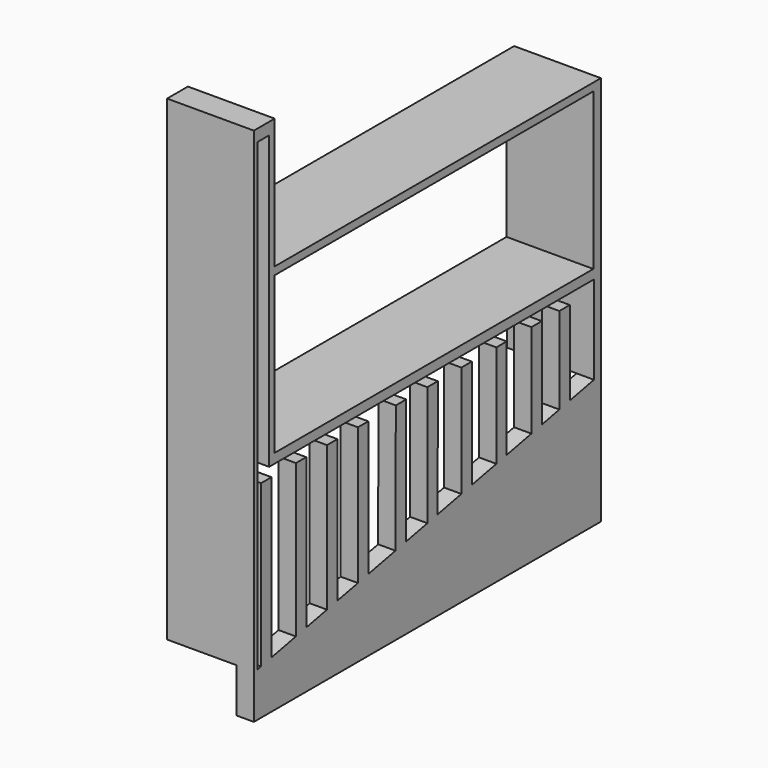
from build123d import *

# Parameters (mm, degrees)
F0_W     = 116.736240685
F0_H     = 45.7762465812
F1_DEPTH = 25.4
F3_DEPTH = 20.32


with BuildPart() as f1:
    # F0 (on Right) → F1 (new body)
    with BuildSketch(Plane.YZ):
        Polygon((-60.9279610217, -47.761421484), (-60.9279610217, -60.461421484), (66.0720389783, -60.461421484), (66.0720389783, -45.2970974147), (66.0720389783, -42.7577458322), (66.0720389783, -40.2231365442), (66.0720389783, -37.6602597535), (66.0720389783, -35.1163968444), (66.0720389783, -32.5725339353), (66.0720389783, -30.0129074603), (66.0720389783, -27.4480152875), (66.0720389783, -25.4), (66.0720389783, -22.361421484), (63.5299555494, -22.8698381698), (63.5299555494, -56.7358210683), (-58.5926286876, -56.7358210683), (-58.5926286876, -47.2943550172), (-59.6095568016, -47.49774064), align=None)
        Polygon((-60.9279610217, 3.0077947435), (-60.9279610217, -47.761421484), (-59.6095568016, -47.49774064), (-59.6095568016, -16.7404655367), (-59.6095568016, 3.0077947435), align=None)
        Polygon((-60.9279610217, 53.8077947435), (-60.9279610217, 3.0077947435), (-59.6095568016, 3.0077947435), (-59.6095568016, 88.458865881), (-55.3284734488, 88.458865881), (-55.3284734488, 54.3211102486), (-55.3284734488, 3.0077947435), (63.5299555494, 3.0077947435), (66.0720389783, 3.0077947435), (66.0720389783, 53.838578516), (-53.3079610217, 53.838578516), (-53.3079610217, 91.938578516), (-60.9279610217, 91.938578516), align=None)
        with Locations((4.933912307, 28.6751843523)):
            Rectangle(F0_W, F0_H, mode=Mode.SUBTRACT)
        Polygon((66.0720389783, 3.0077947435), (63.5299555494, 3.0077947435), (63.5299555494, -22.8698381698), (66.0720389783, -22.361421484), align=None)
        Polygon((-58.2911525815, -47.234059796), (-58.5926286876, -47.2943550172), (-58.5926286876, -56.7358210683), (63.5299555494, -56.7358210683), (63.5299555494, -22.8698381698), (54.6891463984, -24.638), (54.6891463984, 0), (50.8791463984, 0), (50.8791463984, -25.4), (44.4574505091, -26.6843391779), (44.4574505091, 0), (40.6390699608, 0), (40.6390699608, -27.4480152875), (31.6170305014, -29.2524231794), (31.6170305014, 0), (27.8146090967, 0), (27.8146090967, -30.0129074603), (18.8264767218, -31.8105339353), (18.8264767218, 0), (15.0164767218, 0), (15.0164767218, -32.5725339353), (6.3523404126, -34.3053611972), (6.3820375505, -0.0032985204), (2.5720389783, 0), (2.5720389783, -35.061421484), (-5.1686692631, -36.6095631323), (-5.1686692631, -0.0032985204), (-8.9786678353, 0), (-9.1092809997, -37.3976854796), (-19.0416296813, -39.3841552159), (-19.0416296813, -0.0133065219), (-22.8516064445, 0), (-22.8516064445, -40.1461505686), (-30.3492701047, -41.6456833006), (-30.3492701047, 0), (-34.1592701047, 0), (-34.1592701047, -42.4076833006), (-41.7353913358, -43.9229075468), (-41.7353913358, -0.0208968543), (-45.5453340285, 0), (-45.5453340285, -44.6848960854), (-54.4811525815, -46.472059796), (-54.4811525815, 0), (-58.2911525815, 0), align=None)
    extrude(amount=F1_DEPTH)

    # F2 (on face) → F3 (cut)
    with BuildSketch(Plane(origin=(0, 0, 0), x_dir=(0, -1, 0), z_dir=(-1, 0, 0))):
        Polygon((-66.0720389783, -22.361421484), (-66.0720389783, -22.8698381698), (-66.0720389783, -60.461421484), (60.9279610217, -60.461421484), (60.9279610217, -47.49774064), (59.6095568016, -47.365900218), (59.6095568016, -47.49774064), (58.2911525815, -47.234059796), (58.2911525815, 0), (54.4811525815, 0), (54.4811525815, -46.472059796), (45.5453340285, -44.6848960854), (45.5453340285, 0), (41.7353913358, -0.0208968543), (41.7353913358, -43.9229075468), (34.1592701047, -42.4076833006), (34.1592701047, 0), (30.3492701047, 0), (30.3492701047, -41.6456833006), (22.8516064445, -40.1461505686), (22.8516064445, 0), (19.0416296813, -0.0133065219), (19.0416296813, -39.3841552159), (9.1092809997, -37.3976854796), (8.9786678353, 0), (5.1686692631, -0.0032985204), (5.1686692631, -36.6095631323), (-2.5720389783, -35.061421484), (-2.5720389783, 0), (-6.3820375505, -0.0032985204), (-6.3523404126, -34.3053611972), (-15.0164767218, -32.5725339353), (-15.0164767218, 0), (-18.8264767218, 0), (-18.8264767218, -31.8105339353), (-27.8146090967, -30.0129074603), (-27.8146090967, 0), (-31.6170305014, 0), (-31.6170305014, -29.2524231794), (-40.6390699608, -27.4480152875), (-40.6390699608, 0), (-44.4574505091, 0), (-44.4574505091, -26.6843391779), (-50.8791463984, -25.4), (-50.8791463984, 0), (-54.6891463984, 0), (-54.6891463984, -24.638), (-63.5299555494, -22.8698381698), align=None)
    extrude(amount=-F3_DEPTH, mode=Mode.SUBTRACT)


solid = f1.part
